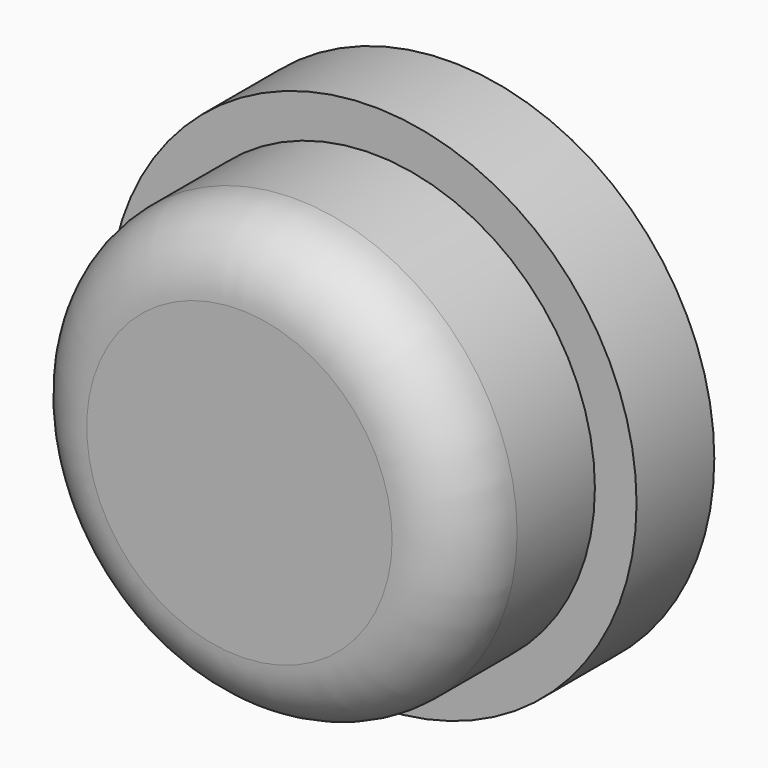
from build123d import *

# Parameters (mm, degrees)
SKETCH043_R  = 3.8
PAD017_DEPTH = 1.4
SKETCH044_R  = 3.2
PAD018_DEPTH = 2.4
FILLET017_R  = 1


with BuildPart() as part:
    # Sketch043 → Pad017 (new body)
    with BuildSketch(Plane.XZ):
        with Locations((28.8, 9.2)):
            Circle(SKETCH043_R)
    extrude(amount=PAD017_DEPTH)

    # Sketch044 (on Face3 of Pad017) → Pad018 (join)
    with BuildSketch(Plane.XZ.offset(1.4)):
        with Locations((28.8, 9.2)):
            Circle(SKETCH044_R)
    extrude(amount=PAD018_DEPTH)

    # Fillet017
    fillet017_edges = [part.edges().sort_by_distance(p)[0] for p in [
        (25.6, -3.8, 9.2),
    ]]
    fillet(fillet017_edges, radius=FILLET017_R)


with BuildPart() as part_1:
    # Body005 placement: moved
    add(part.part.moved(Location((49, 0.6, 0))))


solid = part_1.part
